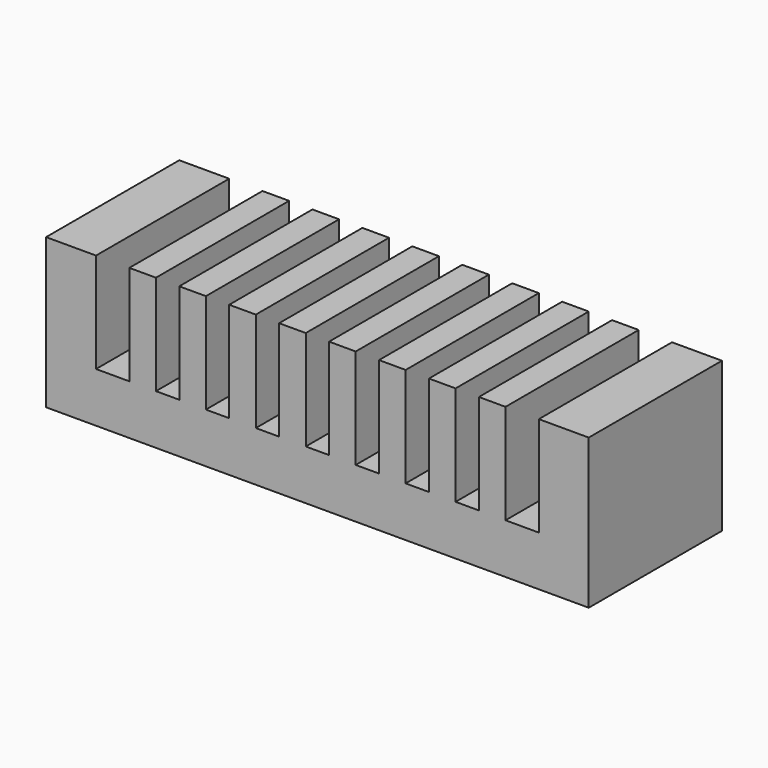
from build123d import *

# Parameters (mm, degrees)
F1_DEPTH = 50


with BuildPart() as f1:
    # F0 (on Front) → F1 (new body)
    with BuildSketch(Plane.XZ):
        Polygon((-81.5, -22.5), (81.5, -22.5), (81.5, 22.5), (66.5, 22.5), (66.5, -7.5), (56.5, -7.5), (56.5, 22.5), (48.5, 22.5), (48.5, -7.5), (41.5, -7.5), (41.5, 22.5), (33.5, 22.5), (33.5, -7.5), (26.5, -7.5), (26.5, 22.5), (18.5, 22.5), (18.5, -7.5), (11.5, -7.5), (11.5, 22.5), (3.5, 22.5), (3.5, -7.5), (-3.5, -7.5), (-3.5, 22.5), (-11.5, 22.5), (-11.5, -7.5), (-18.5, -7.5), (-18.5, 22.5), (-26.5, 22.5), (-26.5, -7.5), (-33.5, -7.5), (-33.5, 22.5), (-41.5, 22.5), (-41.5, -7.5), (-48.5, -7.5), (-48.5, 22.5), (-56.5, 22.5), (-56.5, -7.5), (-66.5, -7.5), (-66.5, 22.5), (-81.5, 22.5), align=None)
    extrude(amount=F1_DEPTH)


solid = f1.part
